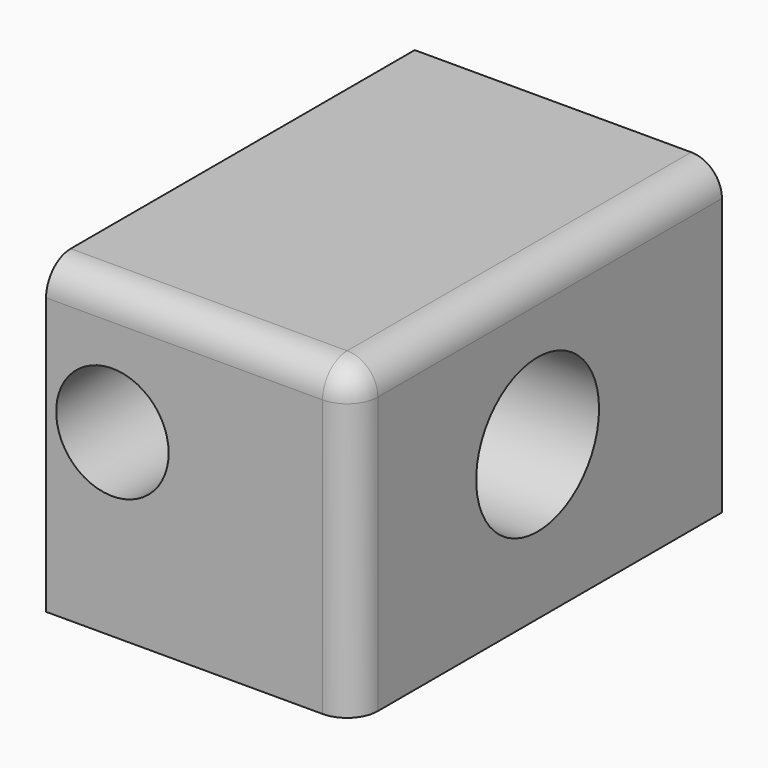
from build123d import *

# Parameters (mm, degrees)
F0_W     = 50.8
F0_H     = 76.2
F1_DEPTH = 25.4
F2_R     = 5.08
F3_R     = 12.7
F4_DEPTH = 50.801
F5_R     = 9.300701
F6_DEPTH = 76.201


with BuildPart() as f1:
    # F0 (on Top) → F1 (new body, symmetric)
    with BuildSketch(Plane.XY):
        Rectangle(F0_W, F0_H)
    extrude(amount=F1_DEPTH, both=True)

    # F2
    f2_edges = [f1.edges().sort_by_distance(p)[0] for p in [
        (25.4, 0, 25.4),
        (25.4, -38.1, 0),
        (0, -38.1, 25.4),
    ]]
    fillet(f2_edges, radius=F2_R)

    # F3 (on face) → F4 (cut, through all)
    with BuildSketch(Plane.YZ.offset(25.4)):
        Circle(F3_R)
    extrude(amount=-F4_DEPTH, mode=Mode.SUBTRACT)

    # F5 (on face) → F6 (cut, through all)
    with BuildSketch(Plane.XZ.offset(38.1)):
        with Locations((-14.431597, 4.293228)):
            Circle(F5_R)
    extrude(amount=-F6_DEPTH, mode=Mode.SUBTRACT)


solid = f1.part
